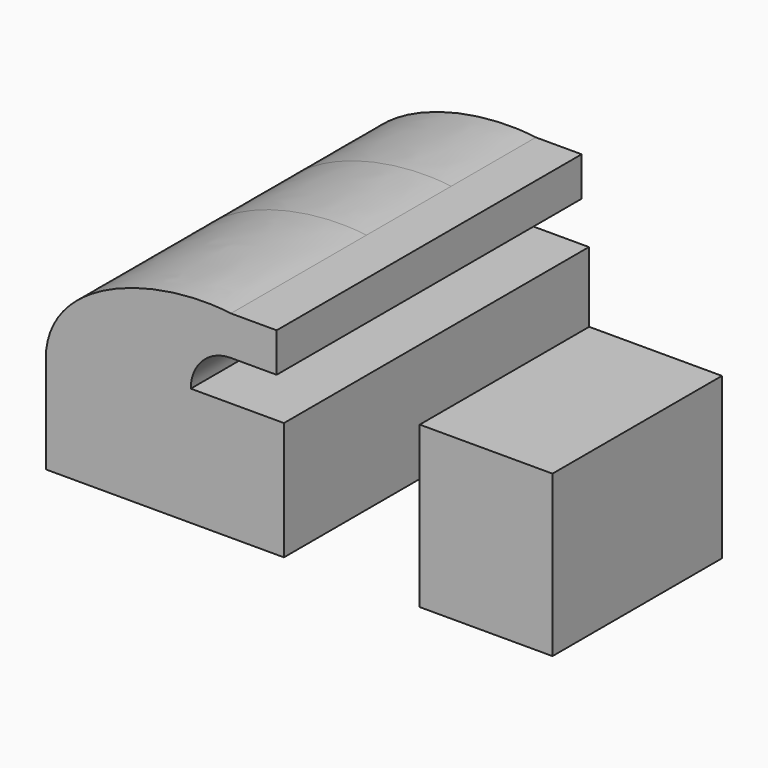
from build123d import *

# Parameters (mm, degrees)
F1_DEPTH = 63.5
F0_W     = 79.6044021845
F0_H     = 25.2211969346
F2_DEPTH = 101.6
F3_DEPTH = 55.88
F4_W     = 79.6044021845
F4_H     = 127
F5_DEPTH = 71.12


with BuildPart() as f1:
    # F0 (on Front) → F1 (new body, symmetric)
    with BuildSketch(Plane.XZ):
        Polygon((-121.9016323911, -8.1461117186), (-35.1431321867, -8.1461117186), (-35.1431321867, 54.5127998523), (-58.6304253743, 54.5127998523), (-121.9016323911, 54.5127998523), align=None)
        with BuildLine():
            Line((-58.6304253743, 54.5127998523), (-35.1431321867, 54.5127998523))
            Line((-35.1431321867, 54.5127998523), (-35.1431321867, 62.754141607))
            ThreePointArc((-35.1431321867, 62.754141607), (-28.0990201588, 79.7601323996), (-11.0930293662, 86.8042444275))
            Line((-11.0930293662, 86.8042444275), (16.3480704476, 86.8042444275))
            Line((16.3480704476, 86.8042444275), (16.3480704476, 110.2915376151))
            Line((16.3480704476, 110.2915376151), (-11.0930293662, 110.2915376151))
            ThreePointArc((-11.0930293662, 110.2915376151), (-44.7070444435, 96.3681566843), (-58.6304253743, 62.754141607))
            Line((-58.6304253743, 62.754141607), (-58.6304253743, 54.5127998523))
        make_face()
        with BuildLine():
            add(Edge.make_bspline(
                [(-121.9016323911, 54.5127998523), (-117.3815886684, 97.1511993913), (-54.2627216707, 115.9869502764), (-11.0930293662, 110.2915376151)],
                knots=[0, 0, 0, 0, 124.0556894734, 124.0556894734, 124.0556894734, 124.0556894734], degree=3))
            Line((-121.9016323911, 54.5127998523), (-58.6304253743, 54.5127998523))
            Line((-58.6304253743, 54.5127998523), (-58.6304253743, 62.754141607))
            ThreePointArc((-58.6304253743, 62.754141607), (-44.7070444435, 96.3681566843), (-11.0930293662, 110.2915376151))
        make_face()
    extrude(amount=F1_DEPTH, both=True)

    # F2 (add): a face of the model
    f2_faces = [f1.faces().sort_by_distance(p)[0] for p in [
        (-67.329024411, -63.5, 52.0323549127),
    ]]
    extrude(f2_faces, amount=F2_DEPTH)

    # F3 (add): a face of the model
    f3_faces = [f1.faces().sort_by_distance(p)[0] for p in [
        (-35.1431321867, -50.8, 27.3040149442),
    ]]
    extrude(f3_faces, amount=F3_DEPTH)


with BuildPart() as f1b:
    # F0 (on Front) → F1, piece 2 (new body, symmetric)
    with BuildSketch(Plane.XZ):
        with Locations((60.6885105371, 8.0786645412)):
            Rectangle(F0_W, F0_H)
    extrude(amount=F1_DEPTH, both=True)

    # F4 (on face) → F5 (join)
    with BuildSketch(Plane(origin=(0, 0, -4.531933926), x_dir=(1, 0, 0), z_dir=(0, 0, -1))):
        with Locations((60.6885105371, 0)):
            Rectangle(F4_W, F4_H)
    extrude(amount=F5_DEPTH)


solid = Compound([f1.part, f1b.part])
